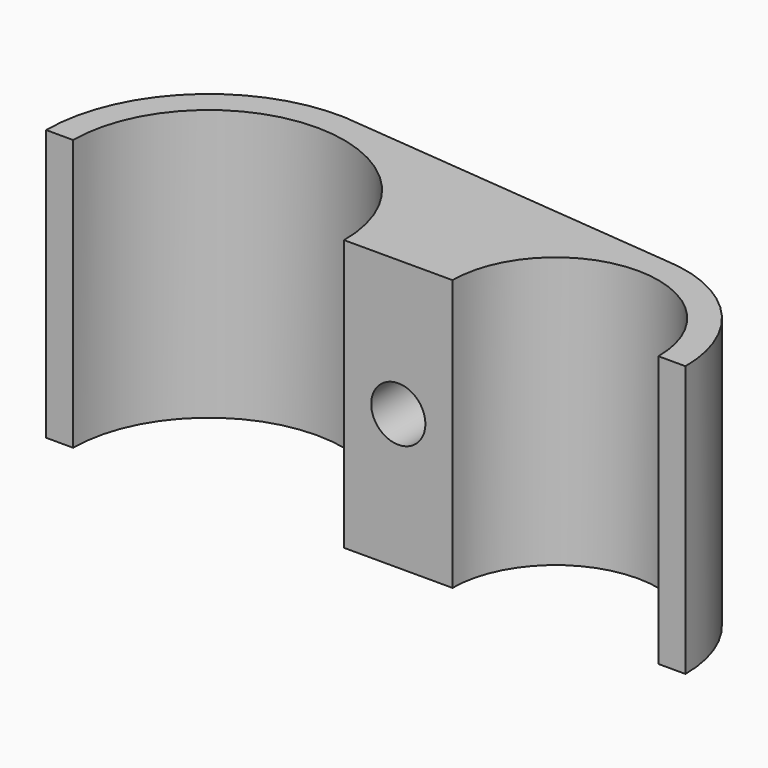
from build123d import *

# Parameters (mm, degrees)
F0_R     = 12.5
F0_R_2   = 9.5
F1_DEPTH = 25
F2_W     = 68.8422210515
F2_H     = 15.526487492
F3_DEPTH = 25
F4_R     = 2.5
F5_DEPTH = 25
F7_W     = 5
F7_H     = 2.4230774548
F8_DEPTH = 2.5


with BuildPart() as f1:
    # F0 (on Top) → F1 (new body)
    with BuildSketch(Plane.XY):
        with BuildLine():
            Line((15.0999815878, 11.984991535), (-15.2279593776, 14.8269292644))
            Line((-15.2279593776, 14.8269292644), (-16.977902849, 14.9909110652))
            ThreePointArc((-16.977902849, 14.9909110652), (-32.4928088986, 0.4644150411), (-17.9067260562, -14.9944847833))
            Line((-17.9067260562, -14.9944847833), (-14.3728174755, -14.6704031798))
            Line((-14.3728174755, -14.6704031798), (14.7825476215, -11.9966731572))
            ThreePointArc((14.7825476215, -11.9966731572), (26.4989489041, -0.1588244182), (15.0999815878, 11.984991535))
        make_face()
        with Locations((-17.5, 0)):
            Circle(F0_R, mode=Mode.SUBTRACT)
        with Locations((14.5, 0)):
            Circle(F0_R_2, mode=Mode.SUBTRACT)
    extrude(amount=F1_DEPTH)

    # F2 (on Top) → F3 (cut)
    with BuildSketch(Plane.XY):
        with Locations((-1.8204059452, -7.763243746)):
            Rectangle(F2_W, F2_H)
    extrude(amount=F3_DEPTH, mode=Mode.SUBTRACT)

    # F4 (on face) → F5 (cut)
    with BuildSketch(Plane.XZ):
        with Locations((0, 12.5)):
            Circle(F4_R)
    extrude(amount=-F5_DEPTH, mode=Mode.SUBTRACT)

    # F7 (on offset) → F8 (cut, symmetric)
    with BuildSketch(Plane.XY.offset(12.5)):
        with Locations((0, 12.7214035019)):
            Rectangle(F7_W, F7_H)
    extrude(amount=F8_DEPTH, both=True, mode=Mode.SUBTRACT)


solid = f1.part
